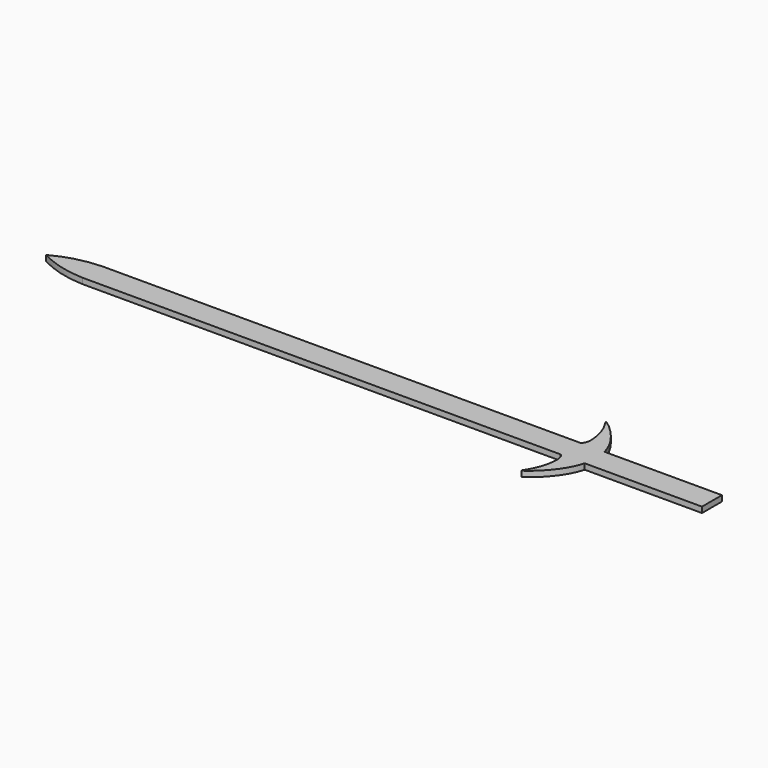
from build123d import *

# Parameters (mm, degrees)
F1_DEPTH = 10


with BuildPart() as f1:
    # F0 (on Top) → F1 (new body)
    with BuildSketch(Plane.XY):
        with BuildLine():
            Line((-746.2014824996, -21.9424013641), (-746.2014824996, 0.163120584))
            Line((-746.2014824996, 0.163120584), (-1671.7228015584, 0))
            add(Edge.make_bspline(
                [(-1590.1704464854, -21.7936541582), (-1621.747511772, -20.5803674502), (-1647.6995944977, -12.7898976207), (-1671.7228015584, 0)],
                knots=[0, 0, 0, 0, 84.414157459, 84.414157459, 84.414157459, 84.414157459], degree=3))
            Line((-1590.1704464854, -21.7936541582), (-746.2014824996, -21.9424013641))
        make_face()
        with BuildLine():
            Line((-746.2014824996, 0.163120584), (-746.2014824996, 21.9424013641))
            Line((-746.2014824996, 21.9424013641), (-1590.1704464854, 21.7936541582))
            add(Edge.make_bspline(
                [(-1590.1704464854, 21.7936541582), (-1621.747511772, 20.5803674502), (-1647.6995944977, 12.7898976207), (-1671.7228015584, 0)],
                knots=[0, 0, 0, 0, 84.414157459, 84.414157459, 84.414157459, 84.414157459], degree=3))
            Line((-1671.7228015584, 0), (-746.2014824996, 0.163120584))
        make_face()
        with BuildLine():
            Line((-703.5796046257, -21.9499133527), (-703.5796046257, 21.9499133527))
            add(Edge.make_bspline(
                [(-703.5796046257, 21.9499133527), (-713.2473588084, 60.6185943622), (-771.759985442, 106.6618434846), (-744.7107225414, 76.935054651), (-734.482080849, 28.6011280639), (-746.2014824996, 21.9424013641)],
                knots=[0, 0, 0, 0, 0.44757288, 0.647658995, 1, 1, 1, 1], degree=3))
            Line((-746.2014824996, 21.9424013641), (-746.2014824996, 0.163120584))
            Line((-746.2014824996, 0.163120584), (-746.2014824996, -21.9424013641))
            add(Edge.make_bspline(
                [(-703.5796046257, -21.9499133527), (-713.2473588084, -60.6185943622), (-771.759985442, -106.6618434846), (-744.7107225414, -76.935054651), (-734.482080849, -28.6011280639), (-746.2014824996, -21.9424013641)],
                knots=[0, 0, 0, 0, 0.44757288, 0.647658995, 1, 1, 1, 1], degree=3))
        make_face()
        Polygon((-496.3935155313, -21.9864293304), (-496.3935155313, 21.9864293304), (-703.5796046257, 21.9499133527), (-703.5796046257, -21.9499133527), align=None)
    extrude(amount=F1_DEPTH)


solid = f1.part
